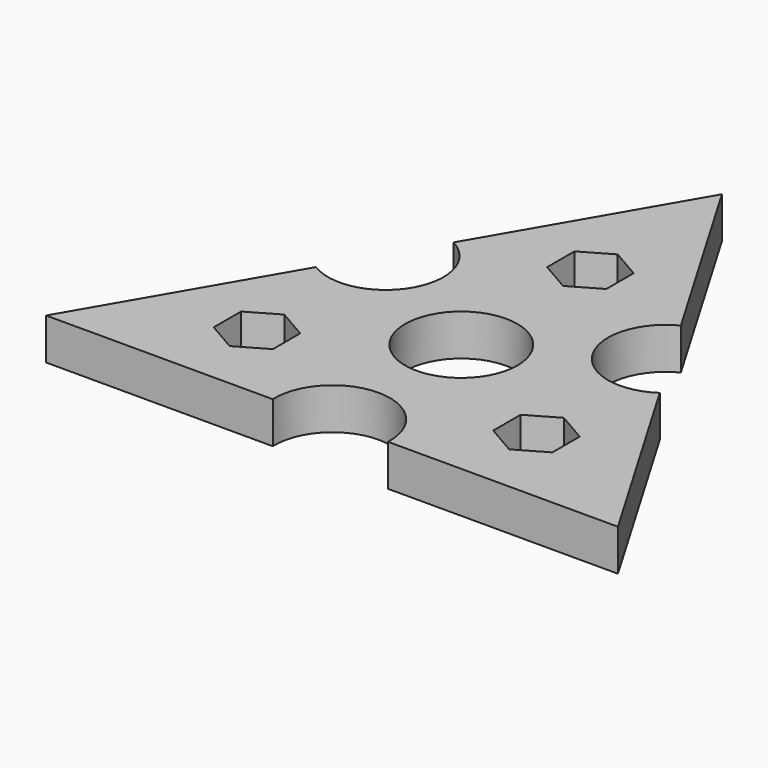
from build123d import *

# Parameters (mm, degrees)
F0_R     = 9.5
F1_DEPTH = 7


with BuildPart() as f1:
    # F0 (on Top) → F1 (new body)
    with BuildSketch(Plane.XY):
        with BuildLine():
            Line((19.215132, 22.378807), (0, 55.077419))
            Line((0, 55.077419), (-19.066227, 22.201317))
            ThreePointArc((-19.066227, 22.201317), (-15.219751, 8.713844), (-28.836632, 5.354102))
            Line((-28.836632, 5.354102), (-48.016034, -27.717147))
            Line((-48.016034, -27.717147), (-9.689672, -27.717147))
            ThreePointArc((-9.689672, -27.717147), (0.044547, -17.537595), (9.778766, -27.717147))
            Line((9.778766, -27.717147), (48.653703, -27.717147))
            Line((48.653703, -27.717147), (29.068287, 5.61158))
            ThreePointArc((29.068287, 5.61158), (15.203422, 8.742665), (19.215132, 22.378807))
        make_face()
        Polygon((-23.626551, -19.414298), (-28.626551, -16.527547), (-28.626551, -10.754044), (-23.626551, -7.867293), (-18.626551, -10.754044), (-18.626551, -16.527547), align=None, mode=Mode.SUBTRACT)
        Circle(F0_R, mode=Mode.SUBTRACT)
        Polygon((28.626551, -10.754044), (28.626551, -16.527547), (23.626551, -19.414298), (18.626551, -16.527547), (18.626551, -10.754044), (23.626551, -7.867293), align=None, mode=Mode.SUBTRACT)
        Polygon((-5, 30.168342), (0, 33.055094), (5, 30.168342), (5, 24.39484), (0, 21.508088), (-5, 24.39484), align=None, mode=Mode.SUBTRACT)
    extrude(amount=F1_DEPTH)


solid = f1.part
